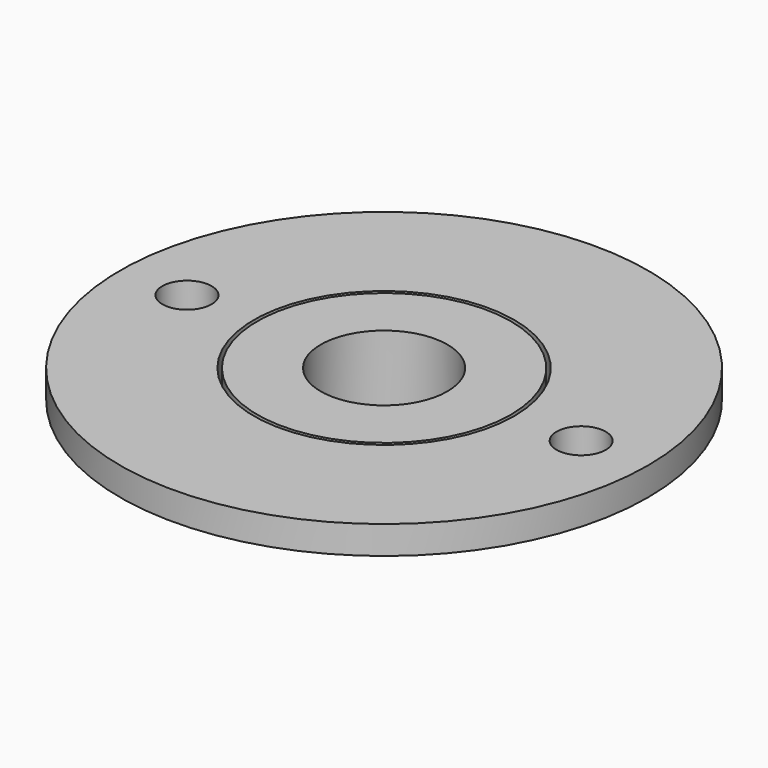
from build123d import *

# Parameters (mm, degrees)
F0_R     = 9
F0_R_2   = 4.5
F1_DEPTH = 5
F2_R     = 18.75
F2_R_2   = 1.75
F2_R_3   = 9.25
F3_DEPTH = 2


with BuildPart() as f1:
    # F0 (on Top) → F1 (new body)
    with BuildSketch(Plane.XY):
        Circle(F0_R)
        Circle(F0_R_2, mode=Mode.SUBTRACT)
    extrude(amount=F1_DEPTH)


with BuildPart() as f3:
    # F2 (on face) → F3 (new body)
    with BuildSketch(Plane.XY.offset(5)):
        Circle(F2_R)
        with Locations((-14, 0)):
            Circle(F2_R_2, mode=Mode.SUBTRACT)
        Circle(F2_R_3, mode=Mode.SUBTRACT)
        with Locations((14, 0)):
            Circle(F2_R_2, mode=Mode.SUBTRACT)
    extrude(amount=-F3_DEPTH)


solid = Compound([f1.part, f3.part])
